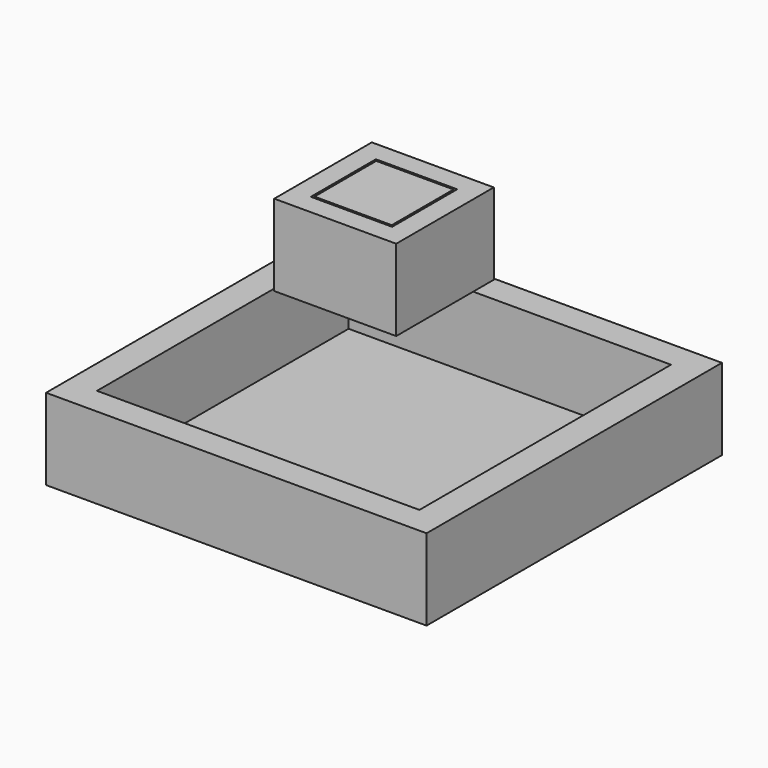
from build123d import *

# Parameters (mm, degrees)
F0_W     = 24.13
F0_H     = 24.13
F1_DEPTH = 25.4
F2_W     = 38.1
F2_H     = 38.1
F2_W_2   = 25.4
F2_H_2   = 25.4
F3_DEPTH = 25.4
F5_W     = 118.855782
F5_H     = 115.327134
F5_W_2   = 100.707702
F5_H_2   = 98.231218
F6_DEPTH = 25.4
F7_DEPTH = 2.54


with BuildPart() as f1:
    # F0 (on Top) → F1 (new body)
    with BuildSketch(Plane.XY):
        Rectangle(F0_W, F0_H)
    extrude(amount=F1_DEPTH)


with BuildPart() as f3:
    # F2 (on Top) → F3 (new body)
    with BuildSketch(Plane.XY):
        Rectangle(F2_W, F2_H)
        Rectangle(F2_W_2, F2_H_2, mode=Mode.SUBTRACT)
    extrude(amount=F3_DEPTH)


with BuildPart() as f6:
    # F5 (on offset) → F6 (new body)
    with BuildSketch(Plane.XY.offset(-50.8)):
        Rectangle(F5_W, F5_H)
        Rectangle(F5_W_2, F5_H_2, mode=Mode.SUBTRACT)
    extrude(amount=F6_DEPTH)

    # F5 (on offset) → F7 (join)
    with BuildSketch(Plane.XY.offset(-50.8)):
        Rectangle(F5_W_2, F5_H_2)
    extrude(amount=F7_DEPTH)


solid = Compound([f1.part, f3.part, f6.part])
